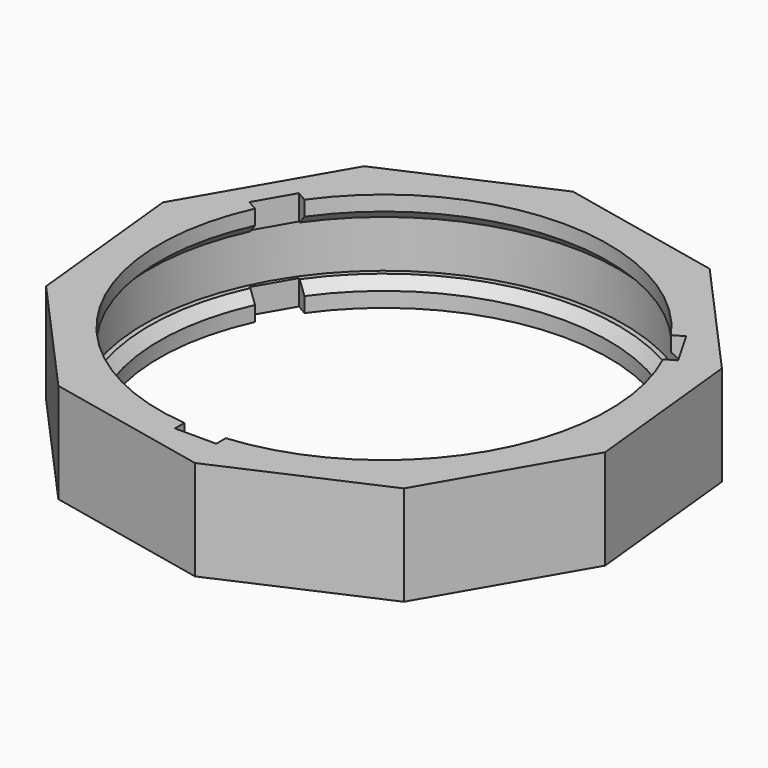
from build123d import *

# Parameters (mm, degrees)
F0_R     = 30.48
F1_DEPTH = 12.7
F2_R     = 30.48
F2_R_2   = 28.575
F3_DEPTH = 3.175
F4_R     = 30.48
F4_R_2   = 28.575
F5_DEPTH = 3.175
F7_DEPTH = 25.4
F8_SIZE  = 1.27


with BuildPart() as f1:
    # F0 (on Top) → F1 (new body)
    with BuildSketch(Plane.XY):
        Polygon((23.1924833864, -25.8367432489), (33.9495698503, -7.2701646691), (31.7390745349, 14.0733697105), (17.4053315185, 30.0413551969), (-3.5766565524, 34.5345640662), (-23.1924833864, 25.8367432489), (-33.9495698503, 7.2701646691), (-31.7390745349, -14.0733697105), (-17.4053315185, -30.0413551969), (3.5766565524, -34.5345640662), align=None)
        Circle(F0_R, mode=Mode.SUBTRACT)
    extrude(amount=F1_DEPTH)

    # F2 (on Top) → F3 (join)
    with BuildSketch(Plane.XY):
        Circle(F2_R)
        Circle(F2_R_2, mode=Mode.SUBTRACT)
    extrude(amount=F3_DEPTH)

    # F4 (on face) → F5 (join)
    with BuildSketch(Plane.XY.offset(12.7)):
        Circle(F4_R)
        Circle(F4_R_2, mode=Mode.SUBTRACT)
    extrude(amount=-F5_DEPTH)

    # F6 (on face) → F7 (cut)
    with BuildSketch(Plane.XY.offset(12.7)):
        with BuildLine():
            ThreePointArc((-25.9621653925, 11.9371936874), (-24.7502578404, 14.2812941233), (-23.3272754336, 16.5036009964))
            Line((-23.3272754336, 16.5036009964), (-24.6366906869, 17.2595922453))
            Line((-24.6366906869, 17.2595922453), (-27.2727255434, 12.6938459433))
            Line((-27.2727255434, 12.6938459433), (-25.9621653925, 11.9371936874))
        make_face()
        with BuildLine():
            ThreePointArc((23.3272754336, 16.5036009964), (24.7466759131, 14.2875), (25.9561754336, 11.9502126283))
            Line((25.9561754336, 11.9502126283), (27.2655906869, 12.7062038773))
            Line((27.2655906869, 12.7062038773), (24.6366906869, 17.2595922453))
            Line((24.6366906869, 17.2595922453), (23.3272754336, 16.5036009964))
        make_face()
        with BuildLine():
            Line((2.6289, -29.9657961227), (2.6289, -28.4538136247))
            ThreePointArc((2.6289, -28.4538136247), (0, -28.575), (-2.6289, -28.4538136247))
            Line((-2.6289, -28.4538136247), (-2.6289, -29.9657961227))
            Line((-2.6289, -29.9657961227), (2.6289, -29.9657961227))
        make_face()
    extrude(amount=-F7_DEPTH, mode=Mode.SUBTRACT)

    # F8
    f8_edges = [f1.edges().sort_by_distance(p)[0] for p in [
        (-24.743092, -14.293705, 3.175),
        (24.746676, -14.2875, 3.175),
        (-24.743092, -14.293705, 9.525),
        (24.746676, -14.2875, 9.525),
        (0, 28.575, 3.175),
        (0, 28.575, 9.525),
    ]]
    chamfer(f8_edges, length=F8_SIZE)


solid = f1.part
